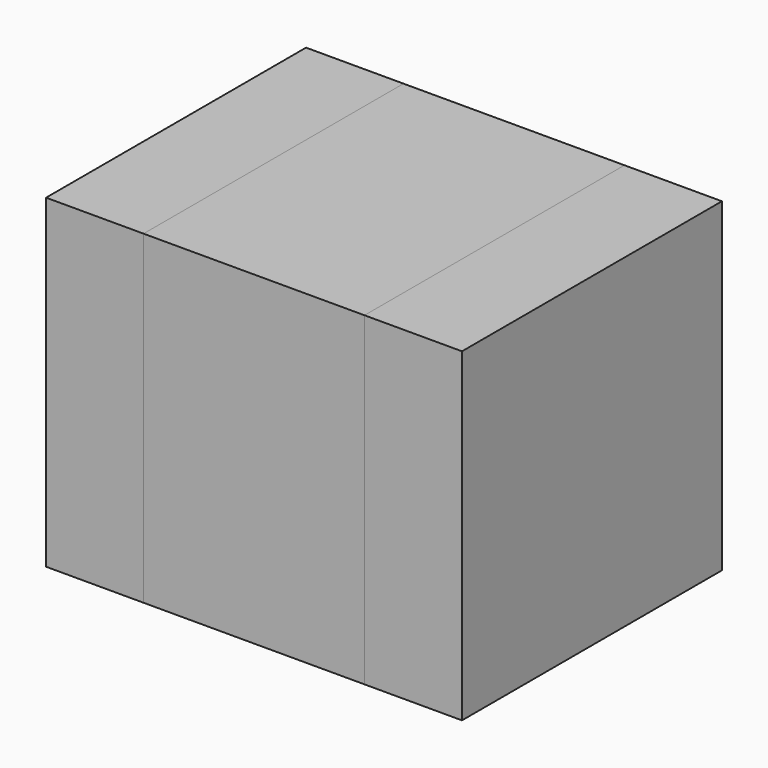
from build123d import *

# Parameters (mm, degrees)
BOX_W        = 0.75
BOX_H        = 2.5
BOX_DEPTH    = 2.5
BOX001_W     = 1.7
BOX001_H     = 2.5
BOX001_DEPTH = 2.5
BOX002_W     = 0.75
BOX002_H     = 2.5
BOX002_DEPTH = 2.5


with BuildPart() as pad001:
    # Box → Box (new body)
    with BuildSketch(Plane.XY):
        with Locations((0.375, 1.25)):
            Rectangle(BOX_W, BOX_H)
    extrude(amount=BOX_DEPTH)


with BuildPart() as corpo:
    # Box001 → Box001 (new body)
    with BuildSketch(Plane(origin=(0.75, 0, 0), x_dir=(1, 0, 0), z_dir=(0, 0, 1))):
        with Locations((0.85, 1.25)):
            Rectangle(BOX001_W, BOX001_H)
    extrude(amount=BOX001_DEPTH)


with BuildPart() as pad002:
    # Box002 → Box002 (new body)
    with BuildSketch(Plane(origin=(2.45, 0, 0), x_dir=(1, 0, 0), z_dir=(0, 0, 1))):
        with Locations((0.375, 1.25)):
            Rectangle(BOX002_W, BOX002_H)
    extrude(amount=BOX002_DEPTH)


solid = Compound([pad001.part, corpo.part, pad002.part])
